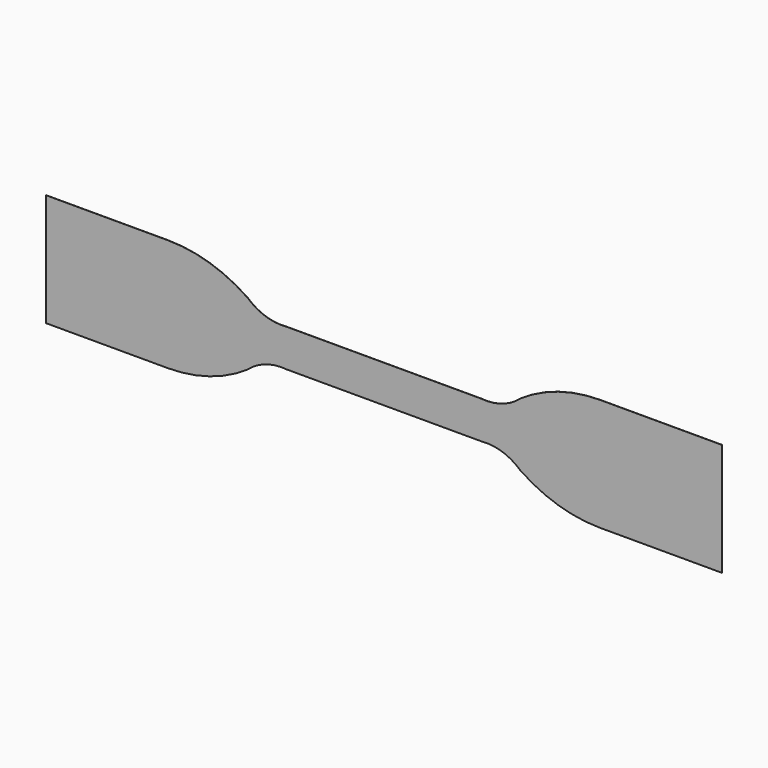
from build123d import *

# Parameters (mm, degrees)
F1_DEPTH = 0.0254


with BuildPart() as f1:
    # F0 (on Front) → F1 (new body)
    with BuildSketch(Plane.XZ):
        with BuildLine():
            Line((-57.15, 9.525), (-57.15, 0))
            Line((-57.15, 0), (-57.15, -9.525))
            Line((-57.15, -9.525), (-36.584958, -9.525))
            ThreePointArc((-36.584958, -9.525), (-29.510865, -8.457538), (-23.066737, -5.35021))
            ThreePointArc((-23.066737, -5.35021), (-20.015893, -3.576776), (-16.51, -3.175))
            Line((-16.51, -3.175), (0, -3.175))
            Line((0, -3.175), (16.51, -3.175))
            ThreePointArc((16.51, -3.175), (20.015893, -3.576776), (23.066737, -5.35021))
            ThreePointArc((23.066737, -5.35021), (29.510865, -8.457538), (36.584958, -9.525))
            Line((36.584958, -9.525), (57.15, -9.525))
            Line((57.15, -9.525), (57.15, 0))
            Line((57.15, 0), (57.15, 9.525))
            Line((57.15, 9.525), (36.584958, 9.525))
            ThreePointArc((36.584958, 9.525), (29.510865, 8.457538), (23.066737, 5.35021))
            ThreePointArc((23.066737, 5.35021), (20.015893, 3.576776), (16.51, 3.175))
            Line((16.51, 3.175), (0, 3.175))
            Line((0, 3.175), (-16.51, 3.175))
            ThreePointArc((-16.51, 3.175), (-20.015893, 3.576776), (-23.066737, 5.35021))
            ThreePointArc((-23.066737, 5.35021), (-29.510865, 8.457538), (-36.584958, 9.525))
            Line((-36.584958, 9.525), (-57.15, 9.525))
        make_face()
    extrude(amount=F1_DEPTH)


solid = f1.part
